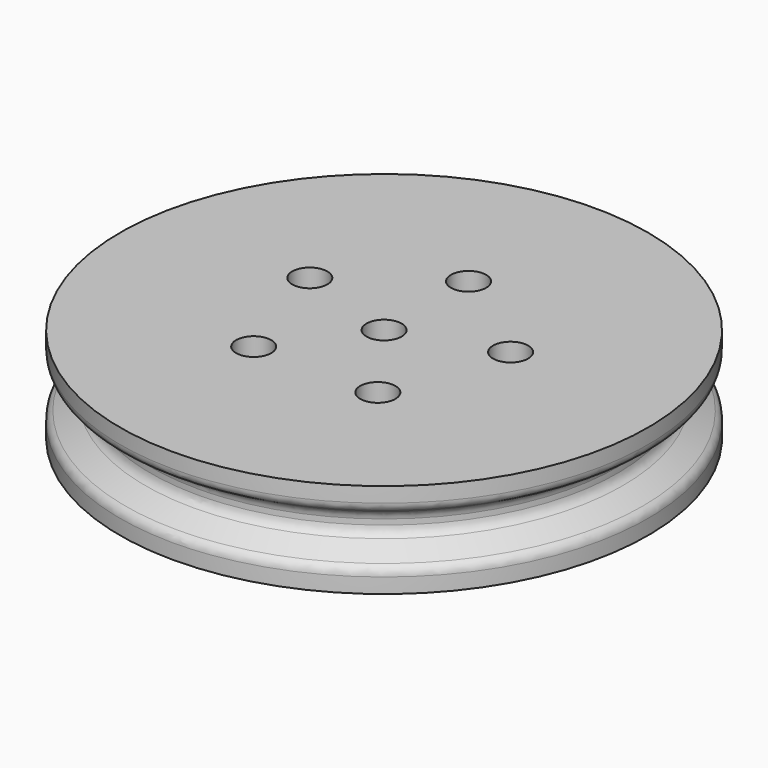
from build123d import *

# Parameters (mm, degrees)
F2_R     = 5
F3_DEPTH = 27
F4_R     = 3


with BuildPart() as f1:
    # F0 (on Right) → F1 (revolve)
    with BuildSketch(Plane.YZ):
        Polygon((-5, -14.671724), (-5, 12.328276), (-75, 12.328276), (-75, 6.328276), (-66.339746, 1.328276), (-66.339746, -3.671724), (-75, -8.671724), (-75, -14.671724), align=None)
    revolve(axis=Axis((0, 0, 3.030096), (0, 0, -1)))

    # F2 (on face) → F3 (cut, through all)
    with BuildSketch(Plane.XY.offset(12.328276)):
        with Locations((-28.531695, 9.27051)):
            Circle(F2_R)
        with Locations((0, 30)):
            Circle(F2_R)
        with Locations((17.633558, -24.27051)):
            Circle(F2_R)
        with Locations((-17.633558, -24.27051)):
            Circle(F2_R)
        with Locations((28.531695, 9.27051)):
            Circle(F2_R)
    extrude(amount=-F3_DEPTH, mode=Mode.SUBTRACT)

    # F4
    f4_edges = [f1.edges().sort_by_distance(p)[0] for p in [
        (0, 75, 6.328276),
        (0, 66.339746, 1.328276),
        (0, 66.339746, -3.671724),
        (0, 75, -8.671724),
    ]]
    fillet(f4_edges, radius=F4_R)


solid = f1.part
